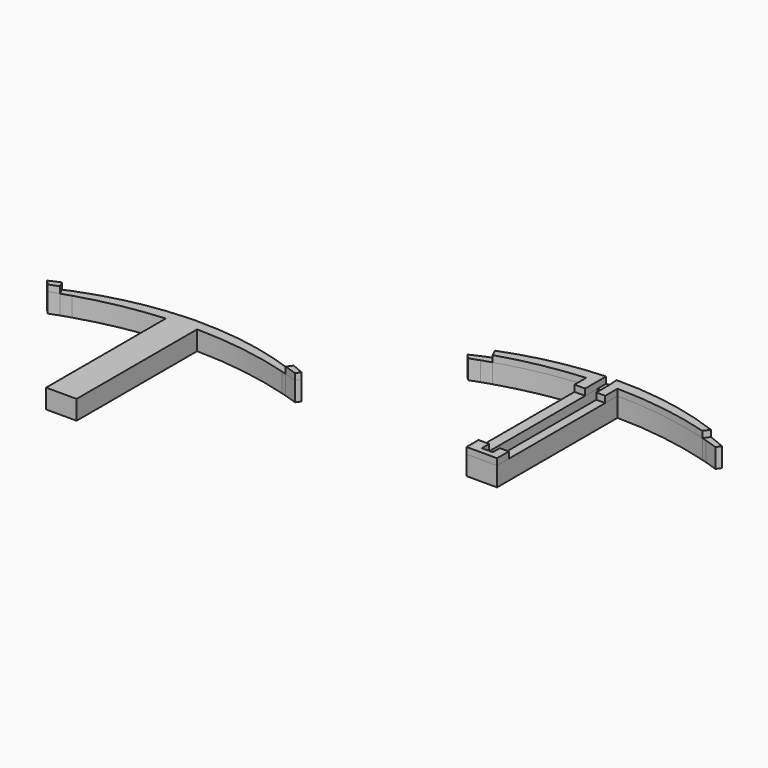
from build123d import *

# Parameters (mm, degrees)
F1_DEPTH = 10.16
F2_DEPTH = 7.62
F0_W     = 3.5319058225
F0_H     = 47.7113383822
F0_W_2   = 4.2136191335
F0_H_2   = 47.4496674724


with BuildPart() as f1:
    # F0 (on Top) → F1 (new body)
    with BuildSketch(Plane.XY):
        with BuildLine():
            Line((-62.7086196105, 6.9542019628), (-63.859421589, 9.4395052171))
            ThreePointArc((-63.859421589, 9.4395052171), (-66.0405740146, 8.4756323991), (-68.2018846273, 7.4680545367))
            Line((-68.2018846273, 7.4680545367), (-66.4890483022, 5.583927501))
            ThreePointArc((-66.4890483022, 5.583927501), (-64.6036842406, 6.282446105), (-62.7086196105, 6.9542019628))
        make_face()
    extrude(amount=F1_DEPTH)


with BuildPart() as f1b:
    # F0 (on Top) → F1, piece 2 (new body)
    with BuildSketch(Plane.XY):
        with BuildLine():
            Line((30.2866194397, 6.9542019628), (31.4856059849, 8.6670452729))
            ThreePointArc((31.4856059849, 8.6670452729), (29.1676409192, 9.6788361604), (26.828605468, 10.6409151614))
            Line((26.828605468, 10.6409151614), (25.2478323508, 8.5956327954))
            ThreePointArc((25.2478323508, 8.5956327954), (27.774883266, 7.7984236152), (30.2866194397, 6.9542019628))
        make_face()
    extrude(amount=F1_DEPTH)


with BuildPart() as f1c:
    # F0 (on Top) → F1, piece 3 (new body)
    with BuildSketch(Plane.XY):
        with BuildLine():
            Line((106.6968534909, 60.9568862112), (106.6968534909, 65.2615321239))
            ThreePointArc((106.6968534909, 65.2615321239), (87.5631710955, 62.8008556066), (69.0824986497, 57.2675494628))
            Line((69.0824986497, 57.2675494628), (70.3966033264, 54.5431568671))
            ThreePointArc((70.3966033264, 54.5431568671), (86.2621022387, 58.5502032273), (102.4832343575, 60.7055104108))
            ThreePointArc((102.4832343575, 60.7055104108), (104.5891098819, 60.8468549434), (106.6968534909, 60.9568862112))
        make_face()
        with BuildLine():
            Line((106.6968534909, 54.9276508391), (106.6968534909, 60.9568862112))
            ThreePointArc((106.6968534909, 60.9568862112), (104.5891098819, 60.8468549434), (102.4832343575, 60.7055104108))
            Line((102.4832343575, 60.7055104108), (102.4832343575, 54.9276508391))
            Line((102.4832343575, 54.9276508391), (106.6968534909, 54.9276508391))
        make_face()
    extrude(amount=F1_DEPTH)


with BuildPart() as f1d:
    # F0 (on Top) → F1, piece 4 (new body)
    with BuildSketch(Plane.XY):
        with BuildLine():
            Line((152.679021715, 55.456282163), (154.2165289348, 57.684894801))
            ThreePointArc((154.2165289348, 57.684894801), (132.855125745, 63.57305995), (110.7708962956, 65.3805014253))
            Line((110.7708962956, 65.3805014253), (111.0299568016, 61.084581168))
            ThreePointArc((111.0299568016, 61.084581168), (112.7958903679, 61.0986729433), (114.561862624, 61.090803419))
            ThreePointArc((114.561862624, 61.090803419), (133.8124309807, 59.5723342457), (152.679021715, 55.456282163))
        make_face()
        with BuildLine():
            ThreePointArc((114.561862624, 61.090803419), (112.7958903679, 61.0986729433), (111.0299568016, 61.084581168))
            Line((111.0299568016, 61.084581168), (111.0299568016, 55.0148747861))
            Line((111.0299568016, 55.0148747861), (114.561862624, 55.0148747861))
            Line((114.561862624, 55.0148747861), (114.561862624, 61.090803419))
        make_face()
    extrude(amount=F1_DEPTH)


with BuildPart() as f1e:
    # F0 (on Top) → F1, piece 5 (new body)
    with BuildSketch(Plane.XY):
        Polygon((114.561862624, 7.3035364039), (111.0299568016, 7.3035364039), (111.0299568016, 3.8255042981), (106.6968534909, 3.8255042981), (106.6968534909, 7.4779833667), (102.4832343575, 7.4779833667), (102.4832343575, 1.5092226963), (114.561862624, 1.5092226963), align=None)
    extrude(amount=F1_DEPTH)


with BuildPart() as f2:
    # F0 (on Top) → F2 (new body)
    with BuildSketch(Plane.XY):
        with BuildLine():
            Line((30.2866194397, 6.9542019628), (31.4856059849, 8.6670452729))
            ThreePointArc((31.4856059849, 8.6670452729), (29.1676409192, 9.6788361604), (26.828605468, 10.6409151614))
            Line((26.828605468, 10.6409151614), (25.2478323508, 8.5956327954))
            ThreePointArc((25.2478323508, 8.5956327954), (27.774883266, 7.7984236152), (30.2866194397, 6.9542019628))
        make_face()
        with BuildLine():
            Line((25.2478323508, 8.5956327954), (26.828605468, 10.6409151614))
            ThreePointArc((26.828605468, 10.6409151614), (25.8955702873, 11.0085224522), (24.9594568597, 11.3682187401))
            Line((24.9594568597, 11.3682187401), (23.4219496399, 9.139606102))
            ThreePointArc((23.4219496399, 9.139606102), (24.3358032445, 8.8706814738), (25.2478323508, 8.5956327954))
        make_face()
        with BuildLine():
            Line((23.4219496399, 9.139606102), (24.9594568597, 11.3682187401))
            ThreePointArc((24.9594568597, 11.3682187401), (3.5980536699, 17.256383889), (-18.4861757794, 19.0638253644))
            Line((-18.4861757794, 19.0638253644), (-18.2271152735, 14.7679051071))
            ThreePointArc((-18.2271152735, 14.7679051071), (-16.4611817071, 14.7819968824), (-14.695209451, 14.7741273581))
            ThreePointArc((-14.695209451, 14.7741273581), (4.5553589056, 13.2556581848), (23.4219496399, 9.139606102))
        make_face()
        with BuildLine():
            Line((-18.2271152735, 14.7679051071), (-18.4861757794, 19.0638253644))
            ThreePointArc((-18.4861757794, 19.0638253644), (-20.5237088277, 19.021861767), (-22.5602185841, 18.9448560629))
            Line((-22.5602185841, 18.9448560629), (-22.5602185841, 14.6402101502))
            ThreePointArc((-22.5602185841, 14.6402101502), (-20.3941542092, 14.7205926299), (-18.2271152735, 14.7679051071))
        make_face()
        with BuildLine():
            ThreePointArc((-22.5602185841, 18.9448560629), (-20.5237088277, 19.021861767), (-18.4861757794, 19.0638253644))
            Line((-18.4861757794, 19.0638253644), (-18.4903963532, 19.1338138341))
            Line((-18.4903963532, 19.1338138341), (-22.5602185841, 18.9448560629))
        make_face()
        with BuildLine():
            Line((-22.5602185841, 14.6402101502), (-22.5602185841, 18.9448560629))
            ThreePointArc((-22.5602185841, 18.9448560629), (-41.6939009795, 16.4841795457), (-60.1745734254, 10.9508734019))
            Line((-60.1745734254, 10.9508734019), (-58.8604687486, 8.2264808061))
            ThreePointArc((-58.8604687486, 8.2264808061), (-42.9949698363, 12.2335271664), (-26.7738377176, 14.3888343499))
            ThreePointArc((-26.7738377176, 14.3888343499), (-24.6679621931, 14.5301788825), (-22.5602185841, 14.6402101502))
        make_face()
        with BuildLine():
            ThreePointArc((-14.695209451, 14.7741273581), (-16.4611817071, 14.7819968824), (-18.2271152735, 14.7679051071))
            Line((-18.2271152735, 14.7679051071), (-18.2271152735, -42.4911717629))
            Line((-18.2271152735, -42.4911717629), (-22.5602185841, -42.4911717629))
            Line((-22.5602185841, -42.4911717629), (-22.5602185841, 14.6402101502))
            ThreePointArc((-22.5602185841, 14.6402101502), (-24.6679621931, 14.5301788825), (-26.7738377176, 14.3888343499))
            Line((-26.7738377176, 14.3888343499), (-26.7738377176, -44.8074533647))
            Line((-26.7738377176, -44.8074533647), (-14.695209451, -44.8074533647))
            Line((-14.695209451, -44.8074533647), (-14.695209451, 14.7741273581))
        make_face()
        with BuildLine():
            Line((-58.8604687486, 8.2264808061), (-60.1745734254, 10.9508734019))
            ThreePointArc((-60.1745734254, 10.9508734019), (-62.0233490085, 10.2106748268), (-63.859421589, 9.4395052171))
            Line((-63.859421589, 9.4395052171), (-62.7086196105, 6.9542019628))
            ThreePointArc((-62.7086196105, 6.9542019628), (-60.789083338, 7.6040705812), (-58.8604687486, 8.2264808061))
        make_face()
        with BuildLine():
            Line((-62.7086196105, 6.9542019628), (-63.859421589, 9.4395052171))
            ThreePointArc((-63.859421589, 9.4395052171), (-66.0405740146, 8.4756323991), (-68.2018846273, 7.4680545367))
            Line((-68.2018846273, 7.4680545367), (-66.4890483022, 5.583927501))
            ThreePointArc((-66.4890483022, 5.583927501), (-64.6036842406, 6.282446105), (-62.7086196105, 6.9542019628))
        make_face()
        with BuildLine():
            Line((-18.2271152735, -42.4911717629), (-18.2271152735, 14.7679051071))
            ThreePointArc((-18.2271152735, 14.7679051071), (-20.3941542092, 14.7205926299), (-22.5602185841, 14.6402101502))
            Line((-22.5602185841, 14.6402101502), (-22.5602185841, -42.4911717629))
            Line((-22.5602185841, -42.4911717629), (-18.2271152735, -42.4911717629))
        make_face()
    extrude(amount=F2_DEPTH)


with BuildPart() as f2b:
    # F0 (on Top) → F2, piece 2 (new body)
    with BuildSketch(Plane.XY):
        with BuildLine():
            Line((159.5436915147, 53.2708780237), (160.74267806, 54.9837213338))
            ThreePointArc((160.74267806, 54.9837213338), (158.4247129942, 55.9955122214), (156.085677543, 56.9575912223))
            Line((156.085677543, 56.9575912223), (154.5049044258, 54.9123088564))
            ThreePointArc((154.5049044258, 54.9123088564), (157.031955341, 54.1150996761), (159.5436915147, 53.2708780237))
        make_face()
        with BuildLine():
            Line((154.5049044258, 54.9123088564), (156.085677543, 56.9575912223))
            ThreePointArc((156.085677543, 56.9575912223), (155.1526423623, 57.3251985131), (154.2165289348, 57.684894801))
            Line((154.2165289348, 57.684894801), (152.679021715, 55.456282163))
            ThreePointArc((152.679021715, 55.456282163), (153.5928753195, 55.1873575348), (154.5049044258, 54.9123088564))
        make_face()
        with BuildLine():
            Line((152.679021715, 55.456282163), (154.2165289348, 57.684894801))
            ThreePointArc((154.2165289348, 57.684894801), (132.855125745, 63.57305995), (110.7708962956, 65.3805014253))
            Line((110.7708962956, 65.3805014253), (111.0299568016, 61.084581168))
            ThreePointArc((111.0299568016, 61.084581168), (112.7958903679, 61.0986729433), (114.561862624, 61.090803419))
            ThreePointArc((114.561862624, 61.090803419), (133.8124309807, 59.5723342457), (152.679021715, 55.456282163))
        make_face()
        with BuildLine():
            Line((111.0299568016, 61.084581168), (110.7708962956, 65.3805014253))
            ThreePointArc((110.7708962956, 65.3805014253), (108.7333632473, 65.338537828), (106.6968534909, 65.2615321239))
            Line((106.6968534909, 65.2615321239), (106.6968534909, 60.9568862112))
            ThreePointArc((106.6968534909, 60.9568862112), (108.8629178658, 61.0372686908), (111.0299568016, 61.084581168))
        make_face()
        with BuildLine():
            ThreePointArc((106.6968534909, 65.2615321239), (108.7333632473, 65.338537828), (110.7708962956, 65.3805014253))
            Line((110.7708962956, 65.3805014253), (110.7666757218, 65.4504898951))
            Line((110.7666757218, 65.4504898951), (106.6968534909, 65.2615321239))
        make_face()
        with BuildLine():
            Line((106.6968534909, 60.9568862112), (106.6968534909, 65.2615321239))
            ThreePointArc((106.6968534909, 65.2615321239), (87.5631710955, 62.8008556066), (69.0824986497, 57.2675494628))
            Line((69.0824986497, 57.2675494628), (70.3966033264, 54.5431568671))
            ThreePointArc((70.3966033264, 54.5431568671), (86.2621022387, 58.5502032273), (102.4832343575, 60.7055104108))
            ThreePointArc((102.4832343575, 60.7055104108), (104.5891098819, 60.8468549434), (106.6968534909, 60.9568862112))
        make_face()
        with BuildLine():
            ThreePointArc((114.561862624, 61.090803419), (112.7958903679, 61.0986729433), (111.0299568016, 61.084581168))
            Line((111.0299568016, 61.084581168), (111.0299568016, 55.0148747861))
            Line((111.0299568016, 55.0148747861), (114.561862624, 55.0148747861))
            Line((114.561862624, 55.0148747861), (114.561862624, 61.090803419))
        make_face()
        with BuildLine():
            Line((70.3966033264, 54.5431568671), (69.0824986497, 57.2675494628))
            ThreePointArc((69.0824986497, 57.2675494628), (67.2337230665, 56.5273508877), (65.3976504861, 55.7561812781))
            Line((65.3976504861, 55.7561812781), (66.5484524645, 53.2708780237))
            ThreePointArc((66.5484524645, 53.2708780237), (68.467988737, 53.9207466422), (70.3966033264, 54.5431568671))
        make_face()
        with BuildLine():
            Line((106.6968534909, 54.9276508391), (106.6968534909, 60.9568862112))
            ThreePointArc((106.6968534909, 60.9568862112), (104.5891098819, 60.8468549434), (102.4832343575, 60.7055104108))
            Line((102.4832343575, 60.7055104108), (102.4832343575, 54.9276508391))
            Line((102.4832343575, 54.9276508391), (106.6968534909, 54.9276508391))
        make_face()
        with Locations((112.7959097128, 31.159205595)):
            Rectangle(F0_W, F0_H)
        with BuildLine():
            Line((66.5484524645, 53.2708780237), (65.3976504861, 55.7561812781))
            ThreePointArc((65.3976504861, 55.7561812781), (63.2164980604, 54.7923084601), (61.0551874477, 53.7847305977))
            Line((61.0551874477, 53.7847305977), (62.7680237729, 51.9006035619))
            ThreePointArc((62.7680237729, 51.9006035619), (64.6533878344, 52.599122166), (66.5484524645, 53.2708780237))
        make_face()
        with Locations((104.5900439242, 31.2028171029)):
            Rectangle(F0_W_2, F0_H_2)
        Polygon((114.561862624, 7.3035364039), (111.0299568016, 7.3035364039), (111.0299568016, 3.8255042981), (106.6968534909, 3.8255042981), (106.6968534909, 7.4779833667), (102.4832343575, 7.4779833667), (102.4832343575, 1.5092226963), (114.561862624, 1.5092226963), align=None)
    extrude(amount=F2_DEPTH)


solid = Compound([f1.part, f1b.part, f1c.part, f1d.part, f1e.part, f2.part, f2b.part])
